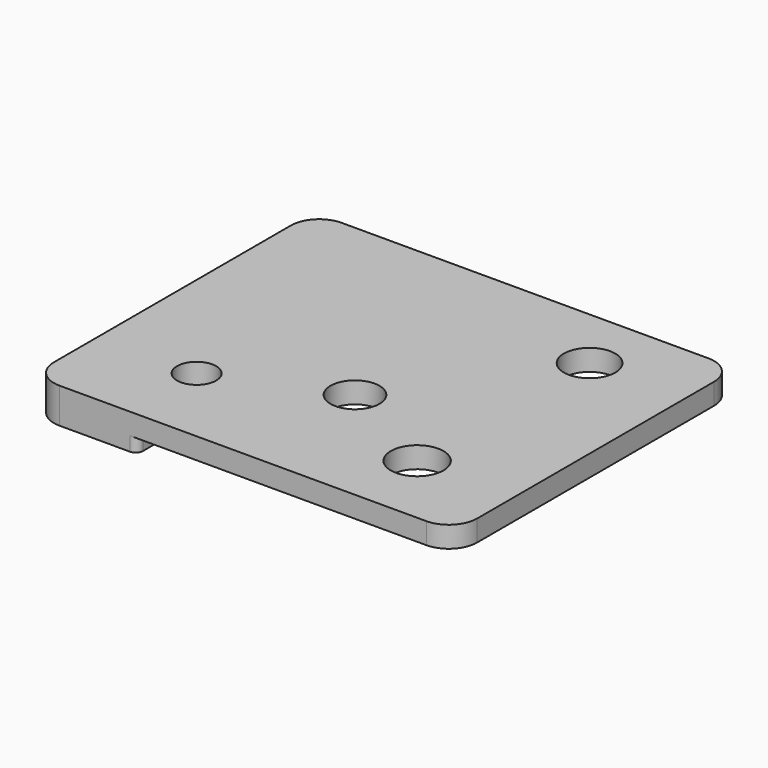
from build123d import *

# Parameters (mm, degrees)
F0_W     = 76.2
F0_H     = 63.5
F0_R     = 3.5209789872
F0_R_2   = 4.7369922421
F0_R_3   = 4.4117780633
F0_R_4   = 4.6311273859
F1_DEPTH = 6.35
F3_DEPTH = 2.54
F4_R     = 5.08
F5_R     = 1.27


with BuildPart() as f1:
    # F0 (on Top) → F1 (new body)
    with BuildSketch(Plane.XY):
        with Locations((38.1, 31.75)):
            Rectangle(F0_W, F0_H)
        with Locations((17.7809670568, 14.9641726166)):
            Circle(F0_R, mode=Mode.SUBTRACT)
        with Locations((58.6243532598, 13.5557809845)):
            Circle(F0_R_2, mode=Mode.SUBTRACT)
        with Locations((39.2589494586, 23.7666256726)):
            Circle(F0_R_3, mode=Mode.SUBTRACT)
        with Locations((58.9764490724, 51.9344769418)):
            Circle(F0_R_4, mode=Mode.SUBTRACT)
    extrude(amount=F1_DEPTH)

    # F2 (on face) → F3 (cut)
    with BuildSketch(Plane(origin=(0, 0, 0), x_dir=(1, 0, 0), z_dir=(0, 0, -1))):
        Polygon((19.05, -6.3181049854), (6.3500011563, -6.3181049854), (6.3500011563, -19.05), (0, -19.05), (0, -63.5), (76.2, -63.5), (76.2, 0), (19.05, 0), align=None)
    extrude(amount=-F3_DEPTH, mode=Mode.SUBTRACT)

    # F4
    f4_edges = [f1.edges().sort_by_distance(p)[0] for p in [
        (0, 63.5, 4.445),
        (76.2, 63.5, 4.445),
        (76.2, 0, 4.445),
        (0, 0, 3.175),
    ]]
    fillet(f4_edges, radius=F4_R)

    # F5
    f5_edges = [f1.edges().sort_by_distance(p)[0] for p in [
        (6.350001, 19.05, 1.27),
        (19.05, 6.318105, 1.27),
        (0, 19.05, 1.27),
        (19.05, 0, 1.27),
    ]]
    fillet(f5_edges, radius=F5_R)


solid = f1.part
